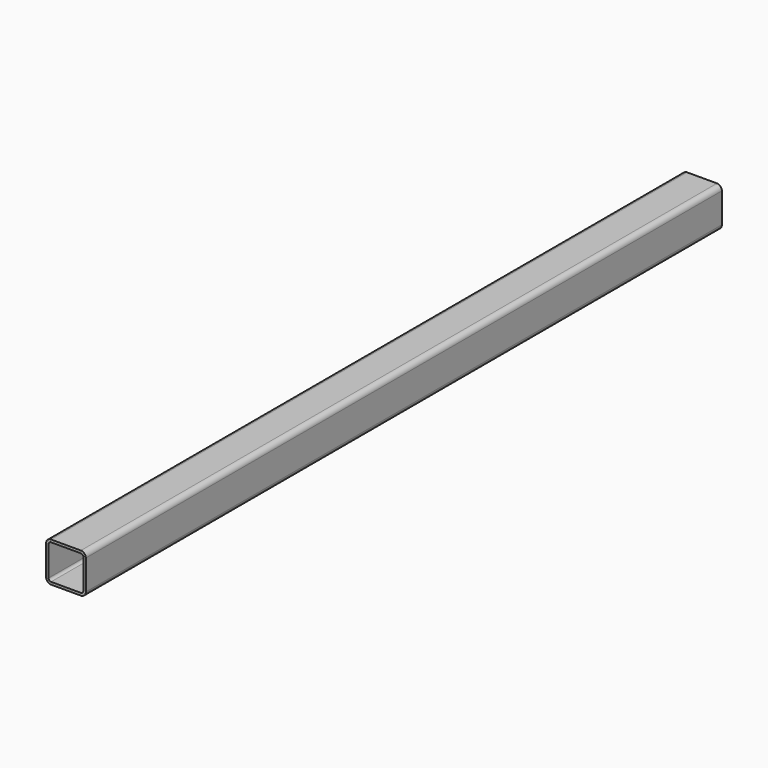
from build123d import *

# Parameters (mm, degrees)
F1_DEPTH = 508


with BuildPart() as f1:
    # F0 (on Front) → F1 (new body, symmetric)
    with BuildSketch(Plane.XZ):
        with BuildLine():
            ThreePointArc((25.4, 19.05), (23.540128, 23.540128), (19.05, 25.4))
            Line((19.05, 25.4), (-19.05, 25.4))
            ThreePointArc((-19.05, 25.4), (-23.540128, 23.540128), (-25.4, 19.05))
            Line((-25.4, 19.05), (-25.4, -19.05))
            ThreePointArc((-25.4, -19.05), (-23.540128, -23.540128), (-19.05, -25.4))
            Line((-19.05, -25.4), (19.05, -25.4))
            ThreePointArc((19.05, -25.4), (23.540128, -23.540128), (25.4, -19.05))
            Line((25.4, -19.05), (25.4, 19.05))
        make_face()
        with BuildLine():
            ThreePointArc((19.05, 22.225), (21.295064, 21.295064), (22.225, 19.05))
            Line((22.225, 19.05), (22.225, -19.05))
            ThreePointArc((22.225, -19.05), (21.295064, -21.295064), (19.05, -22.225))
            Line((19.05, -22.225), (-19.05, -22.225))
            ThreePointArc((-19.05, -22.225), (-21.295064, -21.295064), (-22.225, -19.05))
            Line((-22.225, -19.05), (-22.225, 19.05))
            ThreePointArc((-22.225, 19.05), (-21.295064, 21.295064), (-19.05, 22.225))
            Line((-19.05, 22.225), (19.05, 22.225))
        make_face(mode=Mode.SUBTRACT)
    extrude(amount=F1_DEPTH, both=True)


solid = f1.part
